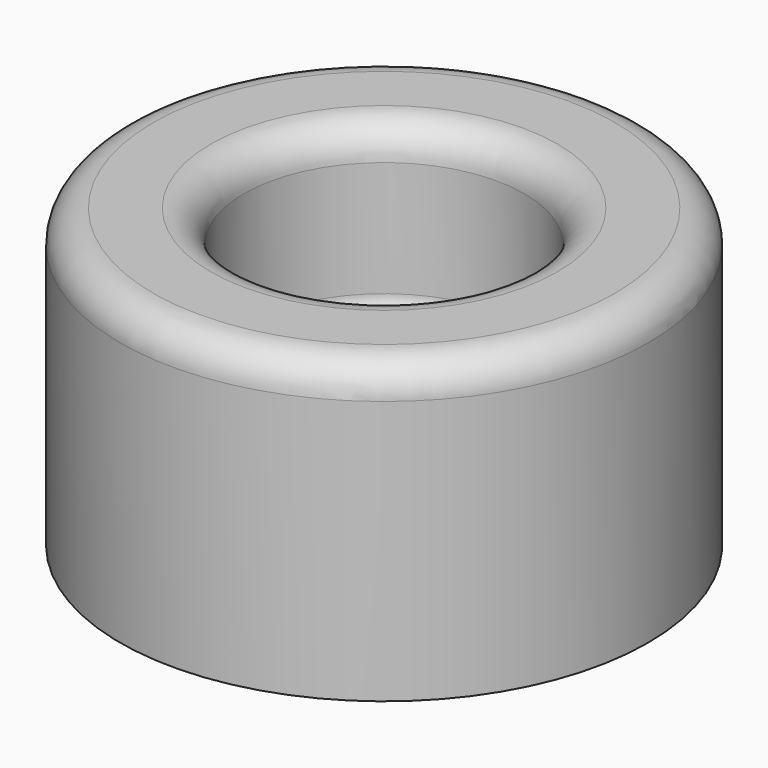
from build123d import *

# Parameters (mm, degrees)
F2_R     = 3.571875
F3_DEPTH = 6.35


with BuildPart() as f1:
    # F0 (on Front) → F1 (revolve)
    with BuildSketch(Plane.XZ):
        with BuildLine():
            Line((5.953125, 6.35), (0, 6.35))
            Line((0, 6.35), (0, 0))
            Line((0, 0), (12.7, 0))
            Line((12.7, 0), (12.7, 12.7))
            ThreePointArc((12.7, 12.7), (12.235032, 13.822532), (11.1125, 14.2875))
            Line((11.1125, 14.2875), (8.334375, 14.2875))
            ThreePointArc((8.334375, 14.2875), (7.211843, 13.822532), (6.746875, 12.7))
            Line((6.746875, 12.7), (6.746875, 7.14375))
            ThreePointArc((6.746875, 7.14375), (6.514391, 6.582484), (5.953125, 6.35))
        make_face()
    revolve(axis=Axis((0, 0, 3.175), (0, 0, -1)))

    # F2 (on face) → F3 (cut, through all)
    with BuildSketch(Plane.XY.offset(6.35)):
        Circle(F2_R)
    extrude(amount=-F3_DEPTH, mode=Mode.SUBTRACT)


solid = f1.part
